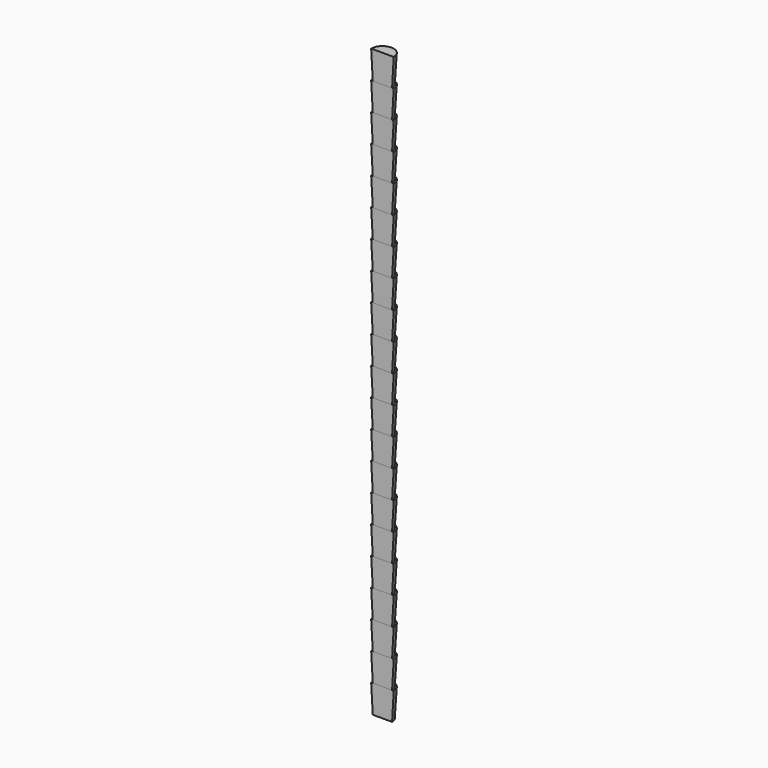
from build123d import *

# Parameters (mm, degrees)
CONE_ANGLE    = 180
ARRAY_Z_COUNT = 21
ARRAY_Z_PITCH = 5.2


with BuildPart() as array:
    # Cone → Cone (revolve)
    with BuildSketch(Plane.XZ):
        Polygon((0, 0), (1.8, 0), (2.1, 5.2), (0, 5.2), align=None)
    revolve(axis=Axis((0, 0, 0), (0, 0, 1)), revolution_arc=CONE_ANGLE)


with BuildPart() as array_copy1:
    # Array Z: instance of Array
    add(array.part.moved(Location(Vector(0, 0, 1) * (1 * ARRAY_Z_PITCH))))


with BuildPart() as array_copy2:
    # Array Z: instance of Array
    add(array.part.moved(Location(Vector(0, 0, 1) * (2 * ARRAY_Z_PITCH))))


with BuildPart() as array_copy3:
    # Array Z: instance of Array
    add(array.part.moved(Location(Vector(0, 0, 1) * (3 * ARRAY_Z_PITCH))))


with BuildPart() as array_copy4:
    # Array Z: instance of Array
    add(array.part.moved(Location(Vector(0, 0, 1) * (4 * ARRAY_Z_PITCH))))


with BuildPart() as array_copy5:
    # Array Z: instance of Array
    add(array.part.moved(Location(Vector(0, 0, 1) * (5 * ARRAY_Z_PITCH))))


with BuildPart() as array_copy6:
    # Array Z: instance of Array
    add(array.part.moved(Location(Vector(0, 0, 1) * (6 * ARRAY_Z_PITCH))))


with BuildPart() as array_copy7:
    # Array Z: instance of Array
    add(array.part.moved(Location(Vector(0, 0, 1) * (7 * ARRAY_Z_PITCH))))


with BuildPart() as array_copy8:
    # Array Z: instance of Array
    add(array.part.moved(Location(Vector(0, 0, 1) * (8 * ARRAY_Z_PITCH))))


with BuildPart() as array_copy9:
    # Array Z: instance of Array
    add(array.part.moved(Location(Vector(0, 0, 1) * (9 * ARRAY_Z_PITCH))))


with BuildPart() as array_copy10:
    # Array Z: instance of Array
    add(array.part.moved(Location(Vector(0, 0, 1) * (10 * ARRAY_Z_PITCH))))


with BuildPart() as array_copy11:
    # Array Z: instance of Array
    add(array.part.moved(Location(Vector(0, 0, 1) * (11 * ARRAY_Z_PITCH))))


with BuildPart() as array_copy12:
    # Array Z: instance of Array
    add(array.part.moved(Location(Vector(0, 0, 1) * (12 * ARRAY_Z_PITCH))))


with BuildPart() as array_copy13:
    # Array Z: instance of Array
    add(array.part.moved(Location(Vector(0, 0, 1) * (13 * ARRAY_Z_PITCH))))


with BuildPart() as array_copy14:
    # Array Z: instance of Array
    add(array.part.moved(Location(Vector(0, 0, 1) * (14 * ARRAY_Z_PITCH))))


with BuildPart() as array_copy15:
    # Array Z: instance of Array
    add(array.part.moved(Location(Vector(0, 0, 1) * (15 * ARRAY_Z_PITCH))))


with BuildPart() as array_copy16:
    # Array Z: instance of Array
    add(array.part.moved(Location(Vector(0, 0, 1) * (16 * ARRAY_Z_PITCH))))


with BuildPart() as array_copy17:
    # Array Z: instance of Array
    add(array.part.moved(Location(Vector(0, 0, 1) * (17 * ARRAY_Z_PITCH))))


with BuildPart() as array_copy18:
    # Array Z: instance of Array
    add(array.part.moved(Location(Vector(0, 0, 1) * (18 * ARRAY_Z_PITCH))))


with BuildPart() as array_copy19:
    # Array Z: instance of Array
    add(array.part.moved(Location(Vector(0, 0, 1) * (19 * ARRAY_Z_PITCH))))


with BuildPart() as array_copy20:
    # Array Z: instance of Array
    add(array.part.moved(Location(Vector(0, 0, 1) * (20 * ARRAY_Z_PITCH))))


solid = Compound([array.part, array_copy1.part, array_copy2.part, array_copy3.part, array_copy4.part, array_copy5.part, array_copy6.part, array_copy7.part, array_copy8.part, array_copy9.part, array_copy10.part, array_copy11.part, array_copy12.part, array_copy13.part, array_copy14.part, array_copy15.part, array_copy16.part, array_copy17.part, array_copy18.part, array_copy19.part, array_copy20.part])
